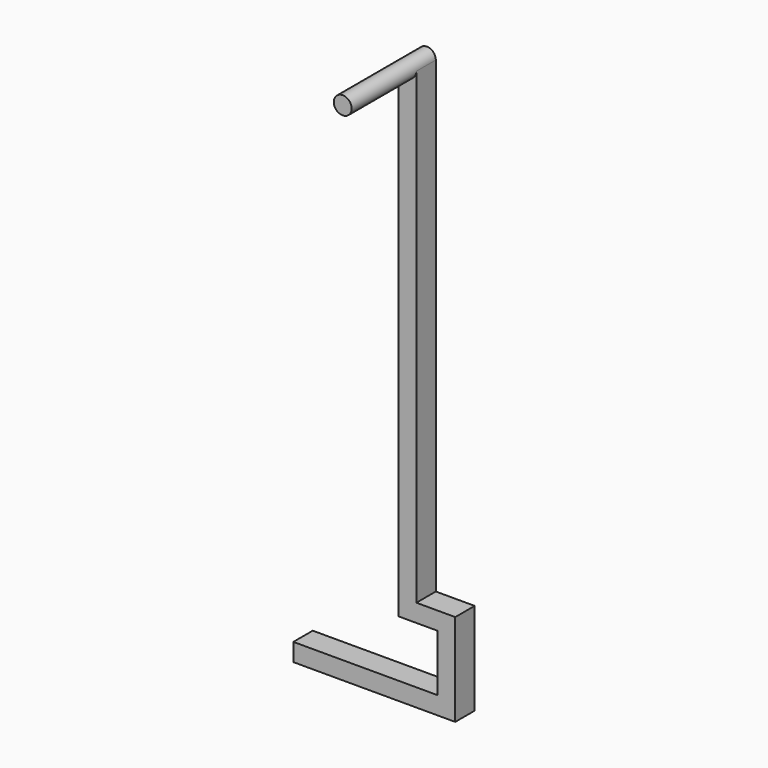
from build123d import *

# Parameters (mm, degrees)
F1_DEPTH = 15
F2_R     = 5.5
F3_DEPTH = 50


with BuildPart() as f1:
    # F0 (on Front) → F1 (new body)
    with BuildSketch(Plane.XZ):
        with BuildLine():
            Line((0, 22.231579), (0, 311.231579))
            ThreePointArc((0, 311.231579), (-5.5, 316.731579), (-11, 311.231579))
            Line((-11, 311.231579), (-11, 11.231579))
            Line((-11, 11.231579), (13, 11.231579))
            Line((13, 11.231579), (13, -23.768421))
            Line((13, -23.768421), (-76, -23.768421))
            Line((-76, -23.768421), (-76, -34.768421))
            Line((-76, -34.768421), (24, -34.768421))
            Line((24, -34.768421), (24, 22.231579))
            Line((24, 22.231579), (0, 22.231579))
        make_face()
    extrude(amount=F1_DEPTH)

    # F2 (on face) → F3 (join)
    with BuildSketch(Plane.XZ.offset(15)):
        with Locations((-5.5, 311.231579)):
            Circle(F2_R)
    extrude(amount=F3_DEPTH)


solid = f1.part
